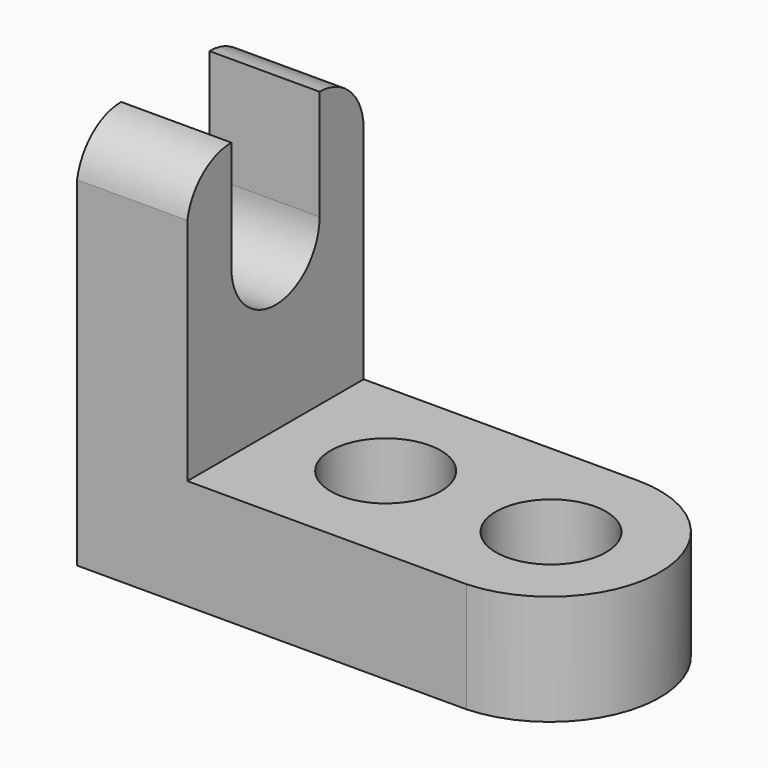
from build123d import *

# Parameters (mm, degrees)
F1_DEPTH = 25.4
F3_DEPTH = 25.4
F4_R     = 6.35
F5_DEPTH = 25.4
F7_DEPTH = 25.4
F9_DEPTH = 25.4


with BuildPart() as f1:
    # F0 (on Front) → F1 (new body)
    with BuildSketch(Plane.XZ):
        Polygon((0, 44.45), (0, 0), (57.15, 0), (57.15, 12.7), (12.7, 12.7), (12.7, 44.45), align=None)
    extrude(amount=F1_DEPTH)

    # F2 (on face) → F3 (cut)
    with BuildSketch(Plane.YZ.offset(12.7)):
        with BuildLine():
            Line((-12.7, 44.45), (-19.05, 44.45))
            Line((-19.05, 44.45), (-19.05, 31.75))
            ThreePointArc((-19.05, 31.75), (-17.1901280605, 36.2401280605), (-12.7, 38.1))
            Line((-12.7, 38.1), (-12.7, 44.45))
        make_face()
        with BuildLine():
            Line((-6.35, 44.45), (-12.7, 44.45))
            Line((-12.7, 44.45), (-12.7, 38.1))
            ThreePointArc((-12.7, 38.1), (-8.2098719395, 36.2401280605), (-6.35, 31.75))
            Line((-6.35, 31.75), (-6.35, 44.45))
        make_face()
        with BuildLine():
            Line((-12.7, 31.75), (-6.35, 31.75))
            ThreePointArc((-6.35, 31.75), (-8.2098719395, 36.2401280605), (-12.7, 38.1))
            Line((-12.7, 38.1), (-12.7, 31.75))
        make_face()
        with BuildLine():
            ThreePointArc((-12.7, 38.1), (-17.1901280605, 36.2401280605), (-19.05, 31.75))
            Line((-19.05, 31.75), (-12.7, 31.75))
            Line((-12.7, 31.75), (-12.7, 38.1))
        make_face()
        with BuildLine():
            Line((-12.7, 31.75), (-19.05, 31.75))
            ThreePointArc((-19.05, 31.75), (-12.7, 25.4), (-6.35, 31.75))
            Line((-6.35, 31.75), (-12.7, 31.75))
        make_face()
    extrude(amount=-F3_DEPTH, mode=Mode.SUBTRACT)

    # F4 (on face) → F5 (cut)
    with BuildSketch(Plane.XY.offset(12.7)):
        with Locations((25.4, -12.7)):
            Circle(F4_R)
        with Locations((44.45, -12.7)):
            Circle(F4_R)
    extrude(amount=-F5_DEPTH, mode=Mode.SUBTRACT)

    # F6 (on face) → F7 (cut)
    with BuildSketch(Plane.YZ.offset(12.7)):
        with BuildLine():
            ThreePointArc((-25.4, 39.1415841877), (-23.1882900586, 42.9480929098), (-19.05, 44.45))
            Line((-19.05, 44.45), (-25.4, 44.45))
            Line((-25.4, 44.45), (-25.4, 39.1415841877))
        make_face()
        with BuildLine():
            Line((0, 44.45), (-6.35, 44.45))
            ThreePointArc((-6.35, 44.45), (-1.8952862622, 42.6255914643), (0, 38.2005681903))
            Line((0, 38.2005681903), (0, 44.45))
        make_face()
    extrude(amount=-F7_DEPTH, mode=Mode.SUBTRACT)

    # F8 (on face) → F9 (cut)
    with BuildSketch(Plane.XY.offset(12.7)):
        with BuildLine():
            ThreePointArc((44.3220846355, 0), (57.0146659204, -12.418883763), (44.897697866, -25.4))
            Line((44.897697866, -25.4), (57.15, -25.4))
            Line((57.15, -25.4), (57.15, 0))
            Line((57.15, 0), (44.3220846355, 0))
        make_face()
    extrude(amount=-F9_DEPTH, mode=Mode.SUBTRACT)


solid = f1.part
